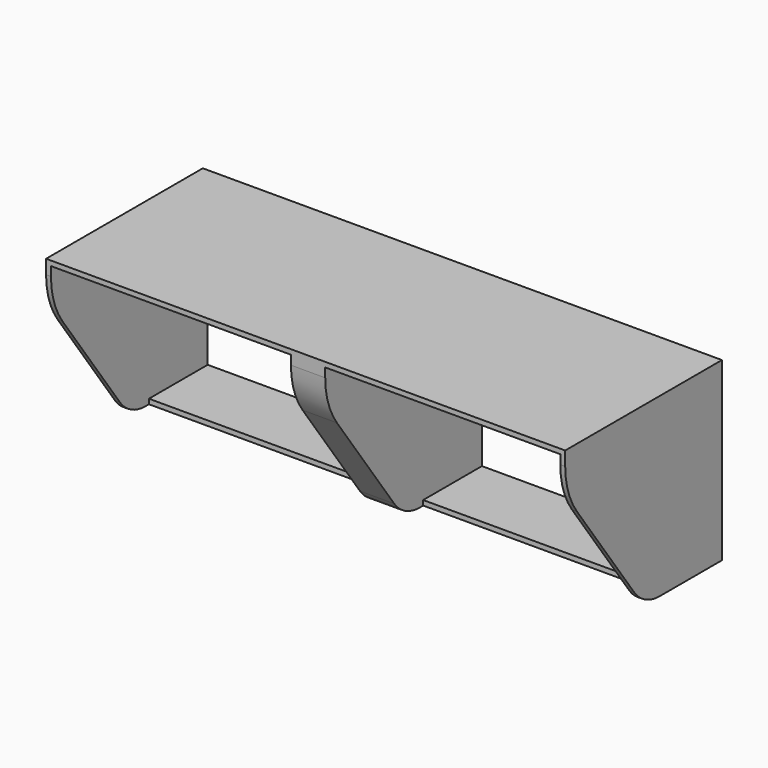
from build123d import *

# Parameters (mm, degrees)
F0_W      = 660.4
F0_H      = 228.6
F0_W_2    = 320.675
F0_H_2    = 215.9
F1_DEPTH  = 127
F2_DEPTH  = 22.225
F3_DEPTH  = 6.35
F4_DEPTH  = 6.35
F5_DEPTH  = 6.35
F6_DEPTH  = 6.35
F7_W      = 311.15
F7_H      = 6.35
F7_W_2    = 304.7793038845
F8_DEPTH  = 31.75
F10_DEPTH = 127
F11_SIZE2 = 127
F11_SIZE  = 177.8
F12_R     = 101.6
F13_R     = 50.8


with BuildPart() as f1:
    # F0 (on Front) → F1 (new body)
    with BuildSketch(Plane.XZ):
        Rectangle(F0_W, F0_H)
        with Locations((-163.5125, 0)):
            Rectangle(F0_W_2, F0_H_2, mode=Mode.SUBTRACT)
        with Locations((163.5125, 0)):
            Rectangle(F0_W_2, F0_H_2, mode=Mode.SUBTRACT)
    extrude(amount=F1_DEPTH)

    # F2 (add, symmetric): a face of the model
    f2_faces = [f1.faces().sort_by_distance(p)[0] for p in [
        (3.175, -63.5, 0),
    ]]
    extrude(f2_faces, amount=F2_DEPTH, both=True)

    # F3 (add): a face of the model
    f3_faces = [f1.faces().sort_by_distance(p)[0] for p in [
        (330.2, -63.5, 0),
    ]]
    extrude(f3_faces, amount=F3_DEPTH)

    # F4 (cut): a face of the model
    f4_faces = [f1.faces().sort_by_distance(p)[0] for p in [
        (323.85, -63.5, 0),
    ]]
    extrude(f4_faces, amount=-F4_DEPTH, mode=Mode.SUBTRACT)

    # F5 (add): a face of the model
    f5_faces = [f1.faces().sort_by_distance(p)[0] for p in [
        (-330.2, -63.5, 0),
    ]]
    extrude(f5_faces, amount=F5_DEPTH)

    # F6 (cut): a face of the model
    f6_faces = [f1.faces().sort_by_distance(p)[0] for p in [
        (-323.85, -63.5, 0),
    ]]
    extrude(f6_faces, amount=-F6_DEPTH, mode=Mode.SUBTRACT)

    # F7 (on face) → F8 (cut)
    with BuildSketch(Plane.XZ.offset(127)):
        with Locations((-174.625, -111.125)):
            Rectangle(F7_W, F7_H)
        with Locations((177.7896519423, -111.125)):
            Rectangle(F7_W_2, F7_H)
    extrude(amount=-F8_DEPTH, mode=Mode.SUBTRACT)

    # F9 (on face) → F10 (join)
    with BuildSketch(Plane.XZ.offset(127)):
        Polygon((-19.05, 107.95), (-19.05, -114.3), (25.4, -114.3), (25.4, 107.95), (330.2, 107.95), (330.2, -107.95), (330.1793038845, -107.95), (330.1793038845, -114.3), (336.55, -114.3), (336.55, 114.3), (-336.55, 114.3), (-336.55, -114.3), (-330.2, -114.3), (-330.2, 107.95), align=None)
    extrude(amount=F10_DEPTH)

    # F11
    f11_edges = [f1.edges().sort_by_distance(p)[0] for p in [
        (3.175, -254, -114.3),
        (-333.375, -254, -114.3),
        (333.364652, -254, -114.3),
    ]]
    f11_side = f1.faces().sort_by_distance((1.850226, -254, 25.602564))[0]
    chamfer(f11_edges, length=F11_SIZE, length2=F11_SIZE2, reference=f11_side)

    # F12
    f12_edges = [f1.edges().sort_by_distance(p)[0] for p in [
        (3.175, -254, 63.5),
        (-333.375, -254, 63.5),
        (333.375, -254, 63.5),
    ]]
    fillet(f12_edges, radius=F12_R)

    # F13
    f13_edges = [f1.edges().sort_by_distance(p)[0] for p in [
        (3.175, -127, -114.3),
        (-333.375, -127, -114.3),
        (333.364652, -127, -114.3),
    ]]
    fillet(f13_edges, radius=F13_R)


solid = f1.part
